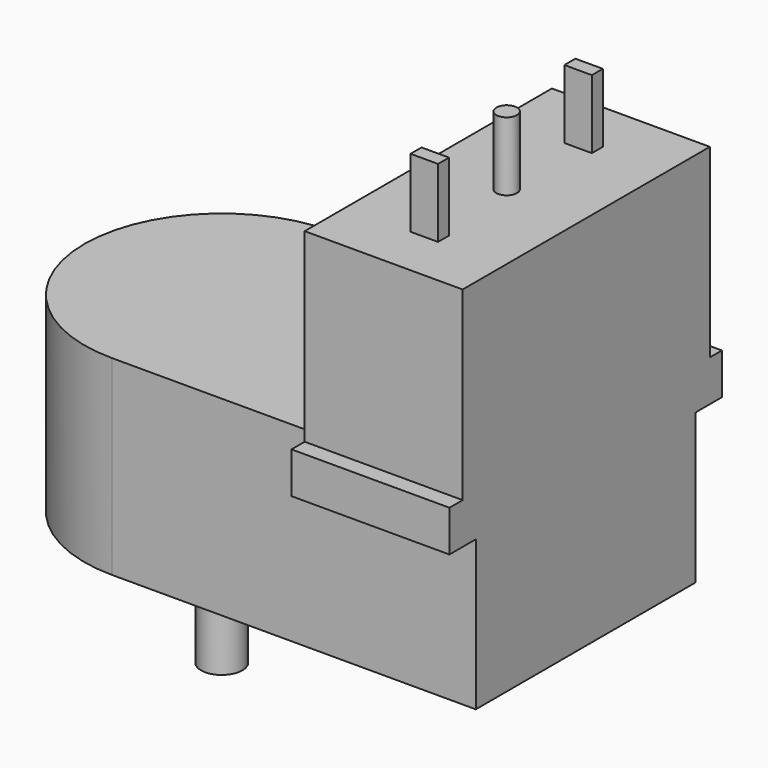
from build123d import *

# Parameters (mm, degrees)
F1_DEPTH = 13.9
F2_R     = 1.5
F3_DEPTH = 9.7
F4_W     = 11.5
F4_H     = 2.4
F5_DEPTH = 3
F6_W     = 11.5
F6_H     = 22.5
F7_DEPTH = 13.5
F8_R     = 0.75
F8_W     = 2
F8_H     = 1
F9_DEPTH = 5


with BuildPart() as f1:
    # F0 (on Top) → F1 (new body)
    with BuildSketch(Plane.XY):
        with BuildLine():
            Line((26.5, 10), (0, 10))
            ThreePointArc((0, 10), (-10, 0), (0, -10))
            Line((0, -10), (26.5, -10))
            Line((26.5, -10), (26.5, 10))
        make_face()
    extrude(amount=F1_DEPTH)

    # F2 (on face) → F3 (join)
    with BuildSketch(Plane(origin=(0, 0, 0), x_dir=(1, 0, 0), z_dir=(0, 0, -1))):
        Circle(F2_R)
    extrude(amount=F3_DEPTH)

    # F4 (on face) → F5 (join)
    with BuildSketch(Plane.XY.offset(13.9)):
        with Locations((20.75, 11.2)):
            Rectangle(F4_W, F4_H)
        with Locations((20.75, -11.2)):
            Rectangle(F4_W, F4_H)
    extrude(amount=-F5_DEPTH)

    # F6 (on face) → F7 (join)
    with BuildSketch(Plane.XY.offset(13.9)):
        with Locations((20.75, 0.05)):
            Rectangle(F6_W, F6_H)
    extrude(amount=F7_DEPTH)

    # F8 (on face) → F9 (join)
    with BuildSketch(Plane.XY.offset(27.4)):
        with Locations((20.75, 0)):
            Circle(F8_R)
        with Locations((20.75, 7)):
            Rectangle(F8_W, F8_H)
        with Locations((20.75, -7)):
            Rectangle(F8_W, F8_H)
    extrude(amount=F9_DEPTH)


solid = f1.part
